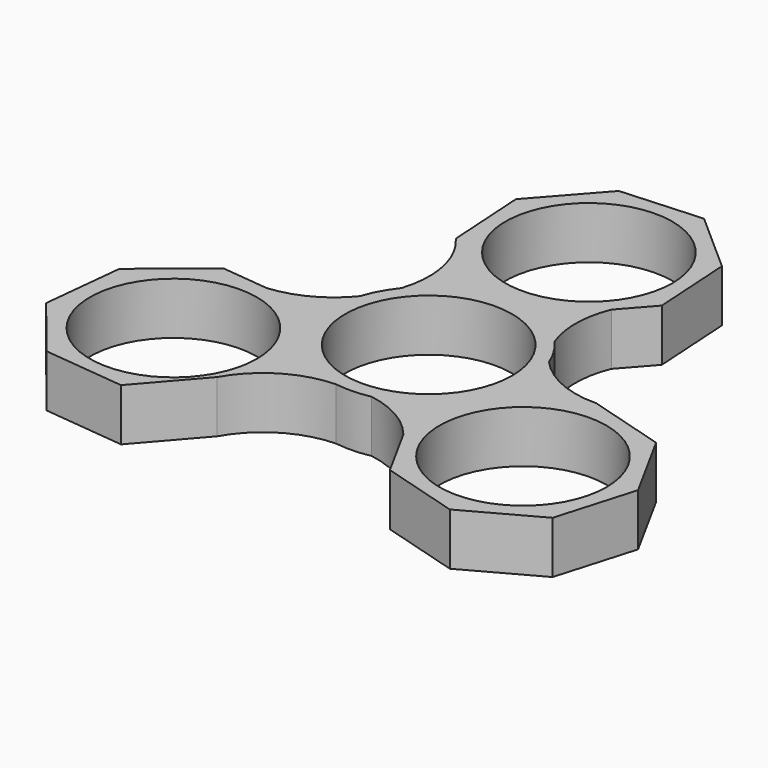
from build123d import *

# Parameters (mm, degrees)
F0_R     = 11.2
F1_DEPTH = 7


with BuildPart() as f1:
    # F0 (on Top) → F1 (new body)
    with BuildSketch(Plane.XY):
        with BuildLine():
            ThreePointArc((2.687978, -12.92342), (10.240149, -8.329427), (13.2, 0))
            ThreePointArc((13.2, 0), (12.970512, 2.450679), (12.290026, 4.816146))
            ThreePointArc((12.290026, 4.816146), (11.245901, 6.911563), (9.848021, 8.789567))
            ThreePointArc((9.848021, 8.789567), (-0.32942, 13.195889), (-10.274323, 8.287236))
            ThreePointArc((-10.274323, 8.287236), (-11.601306, 6.296801), (-12.547257, 4.099555))
            ThreePointArc((-12.547257, 4.099555), (-11.23644, -6.926934), (-1.974108, -13.051548))
            ThreePointArc((-1.974108, -13.051548), (0.362639, -13.195018), (2.687978, -12.92342))
        make_face()
        Circle(F0_R, mode=Mode.SUBTRACT)
        with BuildLine():
            ThreePointArc((12.290026, 4.816146), (12.970512, 2.450679), (13.2, 0))
            ThreePointArc((13.2, 0), (10.240149, -8.329427), (2.687978, -12.92342))
            ThreePointArc((2.687978, -12.92342), (7.094996, -14.488543), (10.640132, -17.538696))
            Line((10.640132, -17.538696), (11.942446, -19.917944))
            Line((11.942446, -19.917944), (14.567682, -24.714088))
            Line((14.567682, -24.714088), (25.063097, -27.784215))
            Line((25.063097, -27.784215), (34.655385, -22.533744))
            Line((34.655385, -22.533744), (37.725512, -12.038328))
            Line((37.725512, -12.038328), (32.475041, -2.446041))
            Line((32.475041, -2.446041), (21.979625, 0.624087))
            ThreePointArc((21.979625, 0.624087), (16.680073, 1.668994), (12.290026, 4.816146))
        make_face()
        with Locations((23.521361, -13.580064)):
            Circle(F0_R, mode=Mode.SUBTRACT)
        with BuildLine():
            ThreePointArc((-10.274323, 8.287236), (-0.32942, 13.195889), (9.848021, 8.789567))
            ThreePointArc((9.848021, 8.789567), (9.000749, 13.505555), (9.955713, 18.20092))
            Line((9.955713, 18.20092), (13.510024, 22.219826))
            Line((13.510024, 22.219826), (12.840438, 33.134545))
            Line((12.840438, 33.134545), (4.649097, 40.378947))
            Line((4.649097, 40.378947), (-6.265622, 39.709361))
            Line((-6.265622, 39.709361), (-13.510024, 31.51802))
            Line((-13.510024, 31.51802), (-12.840438, 20.603301))
            ThreePointArc((-12.840438, 20.603301), (-9.935568, 14.783181), (-10.274323, 8.287236))
        make_face()
        with Locations((0, 26.868923)):
            Circle(F0_R, mode=Mode.SUBTRACT)
        with BuildLine():
            ThreePointArc((-12.732913, -19.541365), (-8.20936, -14.877632), (-1.974108, -13.051548))
            ThreePointArc((-1.974108, -13.051548), (-11.23644, -6.926934), (-12.547257, 4.099555))
            ThreePointArc((-12.547257, 4.099555), (-16.453714, 0.896577), (-21.29652, -0.541025))
            ThreePointArc((-21.29652, -0.541025), (-21.351853, -0.545868), (-21.407206, -0.550469))
            ThreePointArc((-21.407206, -0.550469), (-21.775008, -0.496095), (-22.144195, -0.452101))
            Line((-22.144195, -0.452101), (-26.19324, -0.027343))
            Line((-26.19324, -0.027343), (-27.581975, 0.11834))
            Line((-27.581975, 0.11834), (-36.078883, -6.765118))
            Line((-36.078883, -6.765118), (-37.219765, -17.640678))
            Line((-37.219765, -17.640678), (-30.336308, -26.137586))
            Line((-30.336308, -26.137586), (-19.460747, -27.278468))
            Line((-19.460747, -27.278468), (-12.732913, -19.541365))
        make_face()
        with Locations((-23.26917, -13.725667)):
            Circle(F0_R, mode=Mode.SUBTRACT)
        with BuildLine():
            ThreePointArc((-21.407206, -0.550469), (-21.351853, -0.545868), (-21.29652, -0.541025))
            Line((-21.29652, -0.541025), (-22.144195, -0.452101))
            ThreePointArc((-22.144195, -0.452101), (-21.775008, -0.496095), (-21.407206, -0.550469))
        make_face()
    extrude(amount=F1_DEPTH)


solid = f1.part
